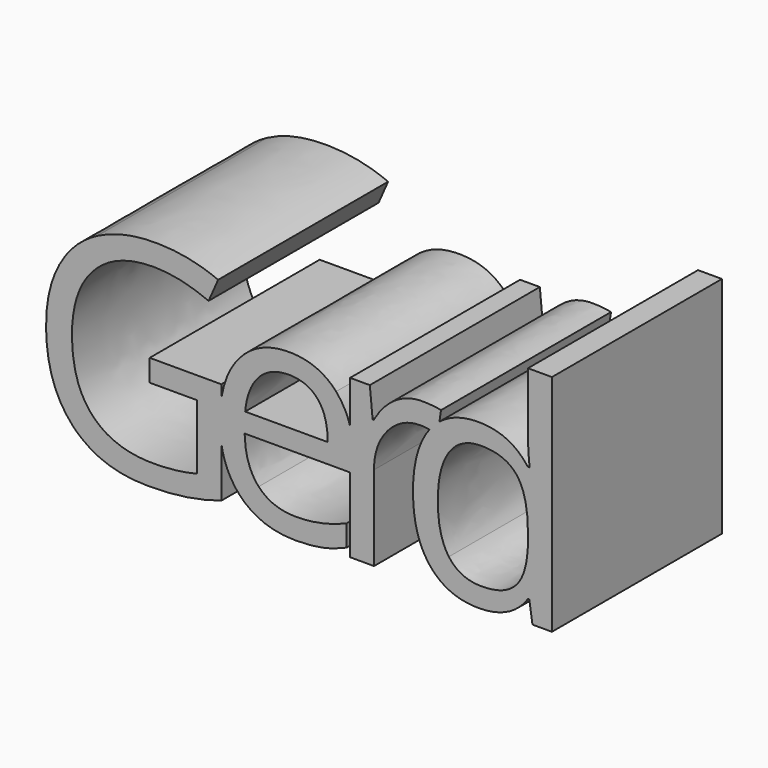
from build123d import *

# Parameters (mm, degrees)
F1_DEPTH = 20


with BuildPart() as f1:
    # F0 (on Front) → F1 (new body)
    with BuildSketch(Plane.XZ):
        with BuildLine():
            Line((-20.4359187527, 10.390625), (-27.1763701416, 10.390625))
            Line((-27.1763701416, 10.390625), (-27.1763701416, 8.3289930556))
            Line((-27.1763701416, 8.3289930556), (-22.7449465305, 8.3289930556))
            Line((-22.7449465305, 8.3289930556), (-22.7449465305, 2.2265625))
            add(Edge.make_bspline(
                [(-26.7727243083, 1.7491319444), (-24.7110923638, 1.7491319444), (-22.7449465305, 2.2265625)],
                knots=[0, 0, 0, 1, 1, 1], degree=2))
            add(Edge.make_bspline(
                [(-32.5301027805, 3.8237847222), (-30.5704673638, 1.7491319444), (-26.7727243083, 1.7491319444)],
                knots=[0, 0, 0, 1, 1, 1], degree=2))
            add(Edge.make_bspline(
                [(-34.4897381972, 9.9131944444), (-34.4897381972, 5.8984375), (-32.5301027805, 3.8237847222)],
                knots=[0, 0, 0, 1, 1, 1], degree=2))
            add(Edge.make_bspline(
                [(-32.4541479194, 15.8962673611), (-34.4897381972, 13.7413194444), (-34.4897381972, 9.9131944444)],
                knots=[0, 0, 0, 1, 1, 1], degree=2))
            add(Edge.make_bspline(
                [(-26.7987659749, 18.0512152778), (-30.4185576416, 18.0512152778), (-32.4541479194, 15.8962673611)],
                knots=[0, 0, 0, 1, 1, 1], degree=2))
            add(Edge.make_bspline(
                [(-21.6294951416, 16.9140625), (-24.316127086, 18.0512152778), (-26.7987659749, 18.0512152778)],
                knots=[0, 0, 0, 1, 1, 1], degree=2))
            Line((-21.6294951416, 16.9140625), (-20.7353979194, 18.9496527778))
            add(Edge.make_bspline(
                [(-26.6511965305, 20.1128472222), (-23.4741131972, 20.1128472222), (-20.7353979194, 18.9496527778)],
                knots=[0, 0, 0, 1, 1, 1], degree=2))
            add(Edge.make_bspline(
                [(-32.1134361138, 18.88671875), (-29.7805368083, 20.1128472222), (-26.6511965305, 20.1128472222)],
                knots=[0, 0, 0, 1, 1, 1], degree=2))
            add(Edge.make_bspline(
                [(-35.6876548638, 15.3342013889), (-34.4463354194, 17.6605902778), (-32.1134361138, 18.88671875)],
                knots=[0, 0, 0, 1, 1, 1], degree=2))
            add(Edge.make_bspline(
                [(-36.9289743083, 9.9131944444), (-36.9289743083, 13.0078125), (-35.6876548638, 15.3342013889)],
                knots=[0, 0, 0, 1, 1, 1], degree=2))
            add(Edge.make_bspline(
                [(-34.4202937527, 2.4066840278), (-36.9289743083, 5.0868055556), (-36.9289743083, 9.9131944444)],
                knots=[0, 0, 0, 1, 1, 1], degree=2))
            add(Edge.make_bspline(
                [(-27.4107451416, -0.2734375), (-31.9116131972, -0.2734375), (-34.4202937527, 2.4066840278)],
                knots=[0, 0, 0, 1, 1, 1], degree=2))
            add(Edge.make_bspline(
                [(-23.6390437527, -0.0151909722), (-25.2666479194, -0.2734375), (-27.4107451416, -0.2734375)],
                knots=[0, 0, 0, 1, 1, 1], degree=2))
            add(Edge.make_bspline(
                [(-20.4359187527, 0.7465277778), (-22.011439586, 0.2430555556), (-23.6390437527, -0.0151909722)],
                knots=[0, 0, 0, 1, 1, 1], degree=2))
            Line((-20.4359187527, 0.7465277778), (-20.4359187527, 5.4885631994))
            add(Edge.make_bspline(
                [(-20.4359187527, 5.4885631994), (-20.5765437527, 6.3415215978), (-20.5765437527, 7.3090277778)],
                knots=[0.7284854764, 0.7284854764, 0.7284854764, 1, 1, 1], degree=2))
            add(Edge.make_bspline(
                [(-20.5765437527, 7.3090277778), (-20.5765437527, 8.3229729678), (-20.4359187527, 9.2192136542)],
                knots=[0, 0, 0, 0.281800931, 0.281800931, 0.281800931], degree=2))
            Line((-20.4359187527, 9.2192136542), (-20.4359187527, 10.390625))
        make_face()
        with BuildLine():
            add(Edge.make_bspline(
                [(-20.4359187527, 9.2192136542), (-20.0775212708, 11.5033765358), (-18.8057104194, 13.0230034722)],
                knots=[0.281800931, 0.281800931, 0.281800931, 1, 1, 1], degree=2))
            Line((-20.4359187527, 9.2192136542), (-20.4359187527, 5.4885631994))
            add(Edge.make_bspline(
                [(-18.6689916694, 1.7361111111), (-20.0586156576, 3.2000380885), (-20.4359187527, 5.4885631994)],
                knots=[0, 0, 0, 0.7284854764, 0.7284854764, 0.7284854764], degree=2))
            add(Edge.make_bspline(
                [(-13.4671687527, -0.2734375), (-16.761439586, -0.2734375), (-18.6689916694, 1.7361111111)],
                knots=[0, 0, 0, 1, 1, 1], degree=2))
            add(Edge.make_bspline(
                [(-10.8977243083, -0.0477430556), (-11.9610923638, -0.2734375), (-13.4671687527, -0.2734375)],
                knots=[0, 0, 0, 1, 1, 1], degree=2))
            add(Edge.make_bspline(
                [(-8.6407798638, 0.6901041667), (-9.8343562527, 0.1779513889), (-10.8977243083, -0.0477430556)],
                knots=[0, 0, 0, 1, 1, 1], degree=2))
            Line((-8.6407798638, 0.6901041667), (-8.6407798638, 2.6996527778))
            add(Edge.make_bspline(
                [(-13.3847034749, 1.6970486111), (-10.9845298638, 1.6970486111), (-8.6407798638, 2.6996527778)],
                knots=[0, 0, 0, 1, 1, 1], degree=2))
            add(Edge.make_bspline(
                [(-16.917689586, 3.0533854167), (-15.6633493083, 1.6970486111), (-13.3847034749, 1.6970486111)],
                knots=[0, 0, 0, 1, 1, 1], degree=2))
            add(Edge.make_bspline(
                [(-18.2414743083, 7.0269097222), (-18.1720298638, 4.4097222222), (-16.917689586, 3.0533854167)],
                knots=[0, 0, 0, 1, 1, 1], degree=2))
            Line((-18.2414743083, 7.0269097222), (-8.3143909749, 7.0269097222))
            Line((-8.3143909749, 7.0269097222), (-8.3143909749, 10.8617799358))
            add(Edge.make_bspline(
                [(-9.6303631972, 13.30078125), (-8.7149482267, 12.2669726101), (-8.3143909749, 10.8617799358)],
                knots=[0, 0, 0, 0.5624309578, 0.5624309578, 0.5624309578], degree=2))
            add(Edge.make_bspline(
                [(-14.0487659749, 15.1388888889), (-11.2579673638, 15.1388888889), (-9.6303631972, 13.30078125)],
                knots=[0, 0, 0, 1, 1, 1], degree=2))
            add(Edge.make_bspline(
                [(-18.8057104194, 13.0230034722), (-17.034877086, 15.1388888889), (-14.0487659749, 15.1388888889)],
                knots=[0, 0, 0, 1, 1, 1], degree=2))
        make_face()
        with BuildLine():
            add(Edge.make_bspline(
                [(-14.0791479194, 13.2508680556), (-15.8673423638, 13.2508680556), (-16.9328805583, 12.0855034722)],
                knots=[0, 0, 0, 1, 1, 1], degree=2))
            add(Edge.make_bspline(
                [(-11.3643041694, 12.1180555556), (-12.3126548638, 13.2508680556), (-14.0791479194, 13.2508680556)],
                knots=[0, 0, 0, 1, 1, 1], degree=2))
            add(Edge.make_bspline(
                [(-10.4159534749, 8.8585069444), (-10.4159534749, 10.9852430556), (-11.3643041694, 12.1180555556)],
                knots=[0, 0, 0, 1, 1, 1], degree=2))
            Line((-10.4159534749, 8.8585069444), (-18.1893909749, 8.8585069444))
            add(Edge.make_bspline(
                [(-16.9328805583, 12.0855034722), (-17.9984187527, 10.9201388889), (-18.1893909749, 8.8585069444)],
                knots=[0, 0, 0, 1, 1, 1], degree=2))
        make_face(mode=Mode.SUBTRACT)
        with BuildLine():
            Line((-20.4359187527, 5.4885631994), (-20.4359187527, 9.2192136542))
            add(Edge.make_bspline(
                [(-20.5765437527, 7.3090277778), (-20.5765437527, 8.3229729678), (-20.4359187527, 9.2192136542)],
                knots=[0, 0, 0, 0.281800931, 0.281800931, 0.281800931], degree=2))
            add(Edge.make_bspline(
                [(-20.4359187527, 5.4885631994), (-20.5765437527, 6.3415215978), (-20.5765437527, 7.3090277778)],
                knots=[0.7284854764, 0.7284854764, 0.7284854764, 1, 1, 1], degree=2))
        make_face()
        with BuildLine():
            Line((-8.3143909749, 14.8654513889), (-8.3143909749, 10.8617799358))
            add(Edge.make_bspline(
                [(-8.3143909749, 10.8617799358), (-8.0027590305, 9.7685456392), (-8.0027590305, 8.4505208333)],
                knots=[0.5624309578, 0.5624309578, 0.5624309578, 1, 1, 1], degree=2))
            Line((-8.0027590305, 8.4505208333), (-8.0027590305, 7.0269097222))
            Line((-8.0027590305, 7.0269097222), (-8.3143909749, 7.0269097222))
            Line((-8.3143909749, 7.0269097222), (-8.3143909749, 0))
            Line((-8.3143909749, 0), (-6.0617868083, 0))
            Line((-6.0617868083, 0), (-6.0617868083, 7.9774305556))
            add(Edge.make_bspline(
                [(-4.7814048638, 11.6254340278), (-6.0617868083, 10.1605902778), (-6.0617868083, 7.9774305556)],
                knots=[0, 0, 0, 1, 1, 1], degree=2))
            add(Edge.make_bspline(
                [(-1.6954673638, 13.0902777778), (-3.5010229194, 13.0902777778), (-4.7814048638, 11.6254340278)],
                knots=[0, 0, 0, 1, 1, 1], degree=2))
            add(Edge.make_bspline(
                [(-0.8296359629, 13.0253661611), (-1.2963885699, 13.0902777778), (-1.6954673638, 13.0902777778)],
                knots=[0.435903349, 0.435903349, 0.435903349, 1, 1, 1], degree=2))
            add(Edge.make_bspline(
                [(-0.8296359629, 13.0253661611), (-0.7993036876, 13.0646284266), (-0.7683840305, 13.1032986111)],
                knots=[0.9810029626, 0.9810029626, 0.9810029626, 1, 1, 1], degree=2))
            add(Edge.make_bspline(
                [(-0.7683840305, 13.1032986111), (-0.3744338397, 13.595998983), (0.0942730128, 13.9694446802)],
                knots=[0, 0, 0, 0.2420429972, 0.2420429972, 0.2420429972], degree=2))
            Line((0.0942730128, 13.9694446802), (0.2446368028, 14.9739583333))
            add(Edge.make_bspline(
                [(-1.5305368083, 15.1388888889), (-0.5409534749, 15.1388888889), (0.2446368028, 14.9739583333)],
                knots=[0, 0, 0, 1, 1, 1], degree=2))
            add(Edge.make_bspline(
                [(-4.0956409749, 14.3511284722), (-2.9281062527, 15.1388888889), (-1.5305368083, 15.1388888889)],
                knots=[0, 0, 0, 1, 1, 1], degree=2))
            add(Edge.make_bspline(
                [(-6.0878284749, 12.1137152778), (-5.2631756972, 13.5633680556), (-4.0956409749, 14.3511284722)],
                knots=[0, 0, 0, 1, 1, 1], degree=2))
            Line((-6.0878284749, 12.1137152778), (-6.1963354194, 12.1137152778))
            Line((-6.1963354194, 12.1137152778), (-6.456752086, 14.8654513889))
            Line((-6.456752086, 14.8654513889), (-8.3143909749, 14.8654513889))
        make_face()
        with BuildLine():
            add(Edge.make_bspline(
                [(-8.3143909749, 10.8617799358), (-8.0027590305, 9.7685456392), (-8.0027590305, 8.4505208333)],
                knots=[0.5624309578, 0.5624309578, 0.5624309578, 1, 1, 1], degree=2))
            Line((-8.3143909749, 10.8617799358), (-8.3143909749, 7.0269097222))
            Line((-8.3143909749, 7.0269097222), (-8.0027590305, 7.0269097222))
            Line((-8.0027590305, 7.0269097222), (-8.0027590305, 8.4505208333))
        make_face()
        with BuildLine():
            add(Edge.make_bspline(
                [(-0.8296359629, 13.0253661611), (-0.7993036876, 13.0646284266), (-0.7683840305, 13.1032986111)],
                knots=[0.9810029626, 0.9810029626, 0.9810029626, 1, 1, 1], degree=2))
            add(Edge.make_bspline(
                [(-0.0678631972, 12.8862847222), (-0.4689548204, 12.9752059783), (-0.8296359629, 13.0253661611)],
                knots=[0, 0, 0, 0.435903349, 0.435903349, 0.435903349], degree=2))
            Line((-0.0678631972, 12.8862847222), (0.0942730128, 13.9694446802))
            add(Edge.make_bspline(
                [(-0.7683840305, 13.1032986111), (-0.3744338397, 13.595998983), (0.0942730128, 13.9694446802)],
                knots=[0, 0, 0, 0.2420429972, 0.2420429972, 0.2420429972], degree=2))
        make_face()
        with BuildLine():
            add(Edge.make_bspline(
                [(-0.0678631972, 12.8862847222), (-0.4689548204, 12.9752059783), (-0.8296359629, 13.0253661611)],
                knots=[0, 0, 0, 0.435903349, 0.435903349, 0.435903349], degree=2))
            add(Edge.make_bspline(
                [(-2.3959881972, 7.3914930556), (-2.3959881972, 10.9978711344), (-0.8296359629, 13.0253661611)],
                knots=[0, 0, 0, 0.9810029626, 0.9810029626, 0.9810029626], degree=2))
            add(Edge.make_bspline(
                [(-0.7748944472, 1.7209201389), (-2.3959881972, 3.7152777778), (-2.3959881972, 7.3914930556)],
                knots=[0, 0, 0, 1, 1, 1], degree=2))
            add(Edge.make_bspline(
                [(3.7628659695, -0.2734375), (0.8461993028, -0.2734375), (-0.7748944472, 1.7209201389)],
                knots=[0, 0, 0, 1, 1, 1], degree=2))
            add(Edge.make_bspline(
                [(8.4286645806, 1.9921875), (6.8705048584, -0.2734375), (3.7628659695, -0.2734375)],
                knots=[0, 0, 0, 1, 1, 1], degree=2))
            Line((8.4286645806, 1.9921875), (8.5501923584, 1.9921875))
            Line((8.5501923584, 1.9921875), (8.8496715251, 0))
            Line((8.8496715251, 0), (10.6812687473, 0))
            Line((10.6812687473, 0), (10.6812687473, 21.1067708333))
            Line((10.6812687473, 21.1067708333), (8.4286645806, 21.1067708333))
            Line((8.4286645806, 21.1067708333), (8.4286645806, 15.0564236111))
            Line((8.4286645806, 15.0564236111), (8.4850881917, 14.0104166667))
            Line((8.4850881917, 14.0104166667), (8.5805743028, 12.9383680556))
            Line((8.5805743028, 12.9383680556), (8.402622914, 12.9383680556))
            add(Edge.make_bspline(
                [(3.7628659695, 15.1388888889), (6.7880395806, 15.1388888889), (8.402622914, 12.9383680556)],
                knots=[0, 0, 0, 1, 1, 1], degree=2))
            add(Edge.make_bspline(
                [(0.0942730128, 13.9694446802), (1.5620272765, 15.1388888889), (3.7628659695, 15.1388888889)],
                knots=[0.2420429972, 0.2420429972, 0.2420429972, 1, 1, 1], degree=2))
            Line((0.0942730128, 13.9694446802), (-0.0678631972, 12.8862847222))
        make_face()
        with BuildLine():
            add(Edge.make_bspline(
                [(4.0493243028, 1.6145833333), (6.3540118028, 1.6145833333), (7.3913381917, 2.8689236111)],
                knots=[0, 0, 0, 1, 1, 1], degree=2))
            add(Edge.make_bspline(
                [(0.9829180528, 3.06640625), (2.0267548584, 1.6145833333), (4.0493243028, 1.6145833333)],
                knots=[0, 0, 0, 1, 1, 1], degree=2))
            add(Edge.make_bspline(
                [(-0.0609187527, 7.3654513889), (-0.0609187527, 4.5182291667), (0.9829180528, 3.06640625)],
                knots=[0, 0, 0, 1, 1, 1], degree=2))
            add(Edge.make_bspline(
                [(0.9894284695, 11.7122395833), (-0.0609187527, 10.1736111111), (-0.0609187527, 7.3654513889)],
                knots=[0, 0, 0, 1, 1, 1], degree=2))
            add(Edge.make_bspline(
                [(4.0232826362, 13.2508680556), (2.0397756917, 13.2508680556), (0.9894284695, 11.7122395833)],
                knots=[0, 0, 0, 1, 1, 1], degree=2))
            add(Edge.make_bspline(
                [(7.3783173584, 11.9010416667), (6.3279701362, 13.2508680556), (4.0232826362, 13.2508680556)],
                knots=[0, 0, 0, 1, 1, 1], degree=2))
            add(Edge.make_bspline(
                [(8.4286645806, 7.3914930556), (8.4286645806, 10.5512152778), (7.3783173584, 11.9010416667)],
                knots=[0, 0, 0, 1, 1, 1], degree=2))
            Line((8.4286645806, 7.3914930556), (8.4286645806, 6.9184027778))
            add(Edge.make_bspline(
                [(7.3913381917, 2.8689236111), (8.4286645806, 4.1232638889), (8.4286645806, 6.9184027778)],
                knots=[0, 0, 0, 1, 1, 1], degree=2))
        make_face(mode=Mode.SUBTRACT)
    extrude(amount=F1_DEPTH)


solid = f1.part
